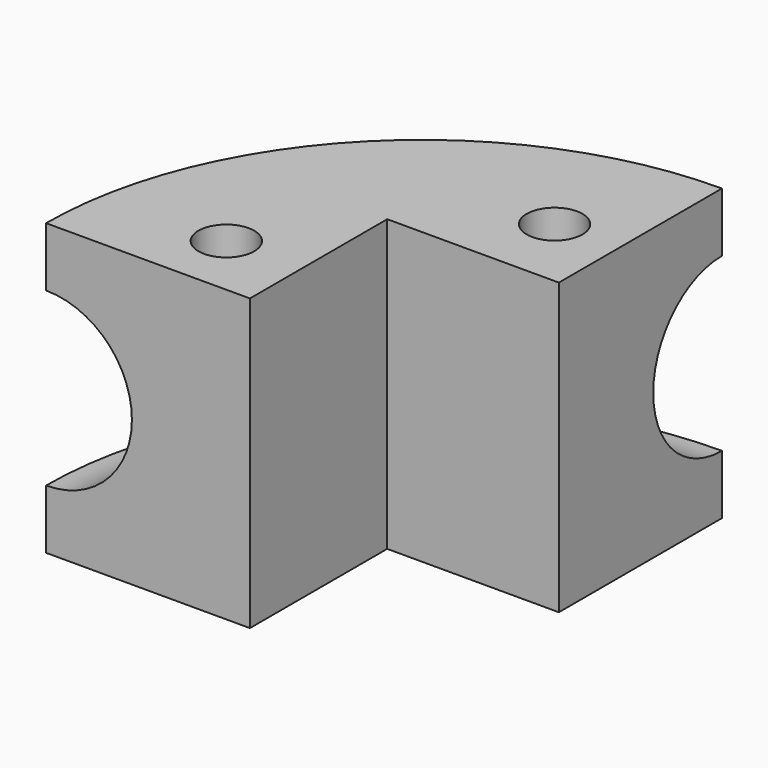
from build123d import *

# Parameters (mm, degrees)
F2_ANGLE = 90
F0_W     = 20.32
F0_H     = 20.32
F3_DEPTH = 34.361461
F4_R     = 3.302
F5_DEPTH = 34.361461


with BuildPart() as f2:
    # F1 (on Right) → F2 (revolve)
    with BuildSketch(Plane.YZ):
        with BuildLine():
            ThreePointArc((44.45, -10.16), (34.29, 0), (44.45, 10.16))
            Line((44.45, 10.16), (44.45, 17.18023))
            Line((44.45, 17.18023), (0, 17.18023))
            Line((0, 17.18023), (0, 0))
            Line((0, 0), (0, -17.18023))
            Line((0, -17.18023), (44.45, -17.18023))
            Line((44.45, -17.18023), (44.45, -10.16))
        make_face()
    revolve(axis=Axis((0, 0, 26.599785), (0, 0, 1)), revolution_arc=F2_ANGLE)

    # F0 (on face) → F3 (cut, through all)
    with BuildSketch(Plane(origin=(0, 0, -17.18023), x_dir=(1, 0, 0), z_dir=(0, 0, -1))):
        with Locations((-10.16, -10.16)):
            Rectangle(F0_W, F0_H)
    extrude(amount=-F3_DEPTH, mode=Mode.SUBTRACT)

    # F4 (on face) → F5 (cut, through all)
    with BuildSketch(Plane(origin=(0, 0, -17.18023), x_dir=(1, 0, 0), z_dir=(0, 0, -1))):
        with Locations((-29.21, -7.62)):
            Circle(F4_R)
        with Locations((-7.62, -29.21)):
            Circle(F4_R)
    extrude(amount=-F5_DEPTH, mode=Mode.SUBTRACT)


solid = f2.part
